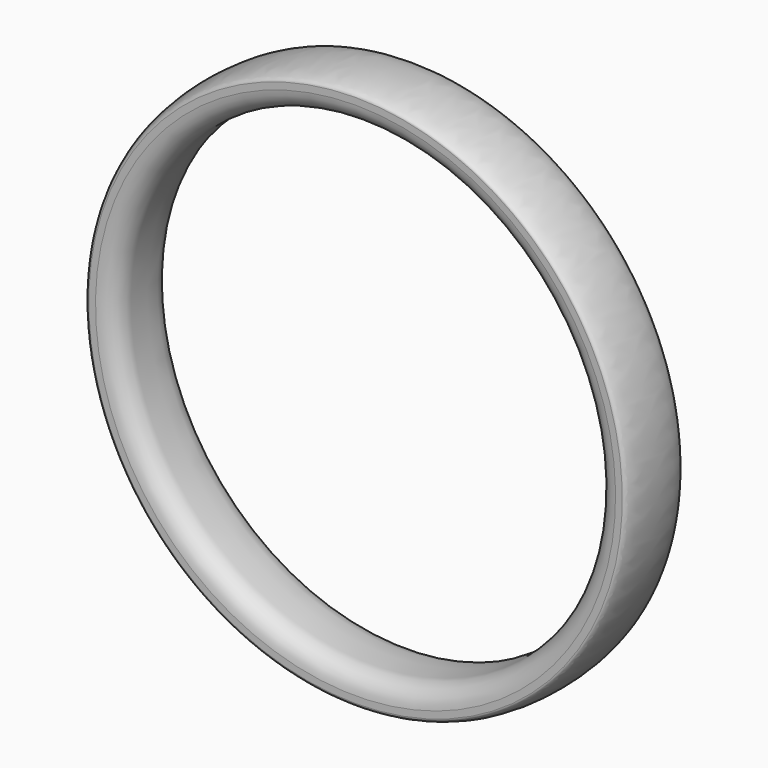
from build123d import *


with BuildPart() as f1:
    # F0 (on Right) → F1 (revolve)
    with BuildSketch(Plane.YZ):
        with BuildLine():
            Line((20, 146.9499582615), (20, 150))
            add(Edge.make_bspline(
                [(20, 150), (20, 154.7926752453), (0, 154.7926752453), (-20, 154.7926752453), (-20, 150)],
                knots=[3.1415926536, 3.1415926536, 3.1415926536, 4.7123889804, 4.7123889804, 6.2831853072, 6.2831853072, 6.2831853072], degree=2, weights=[1, 0.7071067812, 1, 0.7071067812, 1]))
            Line((-20, 150), (-20, 146.2201436687))
            add(Edge.make_bspline(
                [(-20, 146.2201436687), (-19.8647730145, 140.3157632536), (-12.3474958884, 133.8756695121), (0.2667731393, 135.393292093), (8.2865924323, 134.4243563121), (20, 137.5018308419), (20, 146.9499582615)],
                knots=[0, 0, 0, 0, 0.2604602555, 0.5040742877, 0.711684444, 1, 1, 1, 1], degree=3))
        make_face()
    revolve(axis=Axis((0, -0.0625327229, 0), (0, 1, 0)))


solid = f1.part
